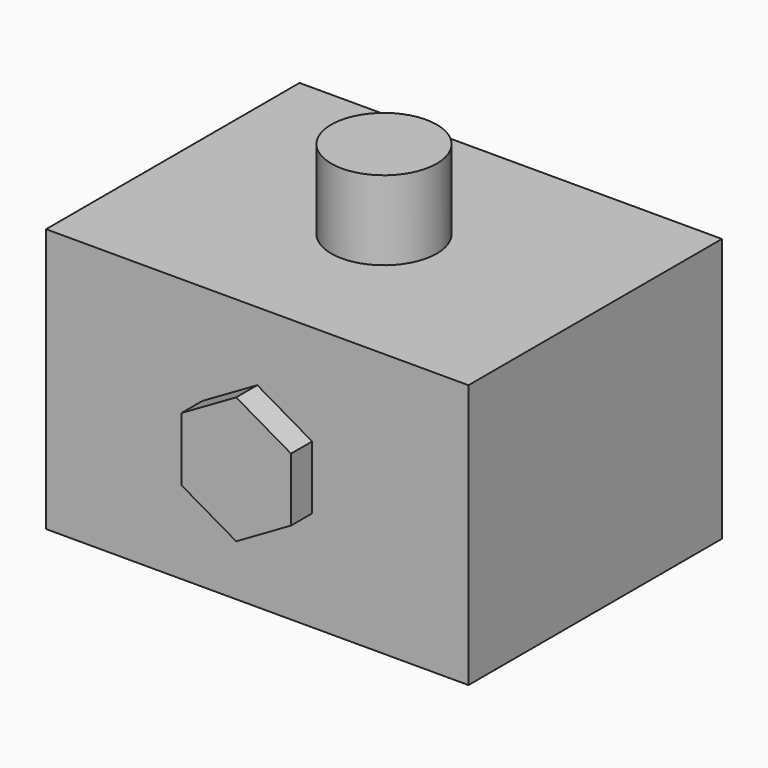
from build123d import *

# Parameters (mm, degrees)
F0_W     = 80
F0_H     = 60
F1_DEPTH = 50
F2_R     = 10
F3_DEPTH = 15
F5_DEPTH = 5


with BuildPart() as f1:
    # F0 (on Top) → F1 (new body)
    with BuildSketch(Plane.XY):
        Rectangle(F0_W, F0_H)
    extrude(amount=F1_DEPTH)

    # F2 (on face) → F3 (join)
    with BuildSketch(Plane.XY.offset(50)):
        Circle(F2_R)
    extrude(amount=F3_DEPTH)

    # F4 (on face) → F5 (join)
    with BuildSketch(Plane.XZ.offset(30)):
        Polygon((-10.392305, 19), (0, 13), (10.392305, 19), (10.392305, 31), (0, 37), (-10.392305, 31), align=None)
    extrude(amount=F5_DEPTH)


solid = f1.part
